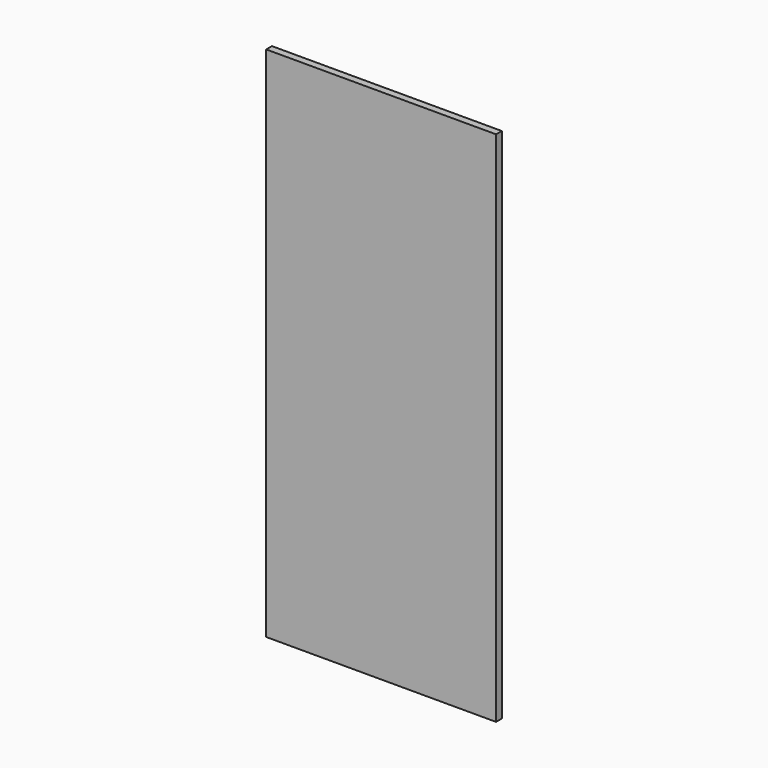
from build123d import *

# Parameters (mm, degrees)
F0_W     = 406.4
F0_H     = 914.4
F1_DEPTH = 6.35
F3_D     = 5.4102
F3_DEPTH = 9.525
F3_TIP   = 1.6253880605


with BuildPart() as f1:
    # F0 (on Front) → F1 (new body, symmetric)
    with BuildSketch(Plane.XZ):
        with Locations((51.5247850299, 225.151946281)):
            Rectangle(F0_W, F0_H)
    extrude(amount=F1_DEPTH, both=True)

    # F3 (one way)
    with BuildSketch(Plane.XZ):
        with Locations((-100.8752149701, 580.751946281), (-100.8752149701, 479.151946281), (-100.8752149701, 377.551946281), (-100.8752149701, 275.951946281), (-100.8752149701, 174.351946281), (-100.8752149701, 72.751946281), (203.9247850299, 72.751946281), (203.9247850299, 174.351946281), (203.9247850299, 275.951946281), (203.9247850299, 377.551946281), (203.9247850299, 479.151946281), (203.9247850299, 580.751946281)):
            Circle(F3_D / 2)
    extrude(amount=-F3_DEPTH, mode=Mode.SUBTRACT)
    with Locations(Plane.XZ):
        with Locations((-100.8752149701, 580.751946281), (-100.8752149701, 479.151946281), (-100.8752149701, 377.551946281), (-100.8752149701, 275.951946281), (-100.8752149701, 174.351946281), (-100.8752149701, 72.751946281), (203.9247850299, 72.751946281), (203.9247850299, 174.351946281), (203.9247850299, 275.951946281), (203.9247850299, 377.551946281), (203.9247850299, 479.151946281), (203.9247850299, 580.751946281)):
            with Locations((0, 0, -(F3_DEPTH + F3_TIP / 2))):  # 118° drill point
                Cone(0, F3_D / 2, F3_TIP, mode=Mode.SUBTRACT)


solid = f1.part
